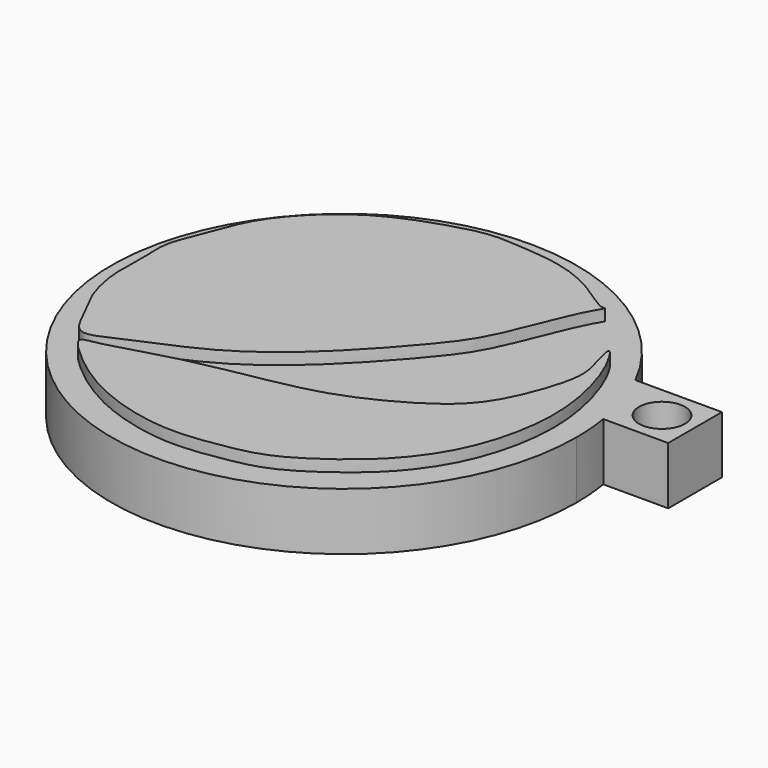
from build123d import *

# Parameters (mm, degrees)
F2_DEPTH = 7.62
F3_DEPTH = 6.35
F4_D     = 5.08


with BuildPart() as f2:
    # F0 (on Top) → F2 (new body)
    with BuildSketch(Plane.XY):
        with BuildLine():
            add(Edge.make_bspline(
                [(11.3925924525, 17.6960881799), (11.4522522271, 17.6316256109), (10.2322182088, 16.0161467643), (7.3368616857, 7.849215981), (4.8478897095, 4.2637920506), (0.782350841, -0.4824891286), (-4.2869563606, -5.5932078406), (-10.3140487718, -9.9502935727), (-17.7466644271, -12.7767589247), (-21.5863698426, -14.8103281471), (-23.2088860472, -10.5264443026), (-24.6762324783, -8.4463871505), (-25.8878547315, -3.9374434033), (-25.4621052529, -0.0640328366), (-25.9049420955, 3.3120423058), (-24.4454604734, 6.4801479172), (-23.0413839958, 10.7489704578), (-20.6435530335, 14.3387062486), (-15.4481695001, 19.1315336144), (-8.3691642114, 21.5030113717), (-4.7808371416, 22.4031037903), (-1.2724982435, 22.0983579931), (2.6663893577, 21.8590663748), (7.3612089943, 20.3355328943), (10.8287082301, 17.4622169589), (11.3649415118, 17.7259651059), (11.3925924525, 17.6960881799)],
                knots=[0, 0, 0, 0, 0.0243333914, 0.0834161199, 0.1263939574, 0.174822437, 0.2281911591, 0.2828459756, 0.3394774008, 0.3756173055, 0.4131842142, 0.446348772, 0.4881590181, 0.5277659611, 0.563430048, 0.6000460178, 0.6416643383, 0.6826708363, 0.7352876759, 0.7894061593, 0.8272248113, 0.8634878554, 0.9026759321, 0.9482742966, 0.9887220298, 1, 1, 1, 1], degree=3))
        make_face()
    extrude(amount=F2_DEPTH)



with BuildPart() as f2b:
    # F0 (on Top) → F2, piece 2 (new body)
    with BuildSketch(Plane.XY):
        with BuildLine():
            add(Edge.make_bspline(
                [(16.641119495, 11.6538135335), (16.4952132012, 11.5061059532), (17.2817326312, 8.7812772647), (17.9929596599, 6.2142330274), (15.4270380487, -1.3536883497), (11.7192736658, -5.3897319121), (4.403453858, -9.3002603402), (-1.9400838465, -10.893150571), (-11.4027863634, -12.3852173813), (-18.2239671871, -14.7749376238), (-20.9724852679, -14.9516052994), (-18.2363704978, -17.7426323853), (-13.0464742137, -21.6023653407), (-4.807585734, -23.918750216), (1.3858091553, -23.0235440632), (5.8684376604, -22.1646485244), (10.2133839763, -19.4502588846), (14.4122948719, -16.1119806131), (18.0886438515, -11.2779818899), (20.1792944174, -5.1475439728), (20.7010865509, 1.845290411), (18.6513287997, 9.0112292063), (16.7875911075, 11.8020934115), (16.641119495, 11.6538135335)],
                knots=[0, 0, 0, 0, 0.031958286, 0.0676368966, 0.1228189259, 0.1713835567, 0.228277207, 0.2808819576, 0.344358483, 0.3997076941, 0.4251233199, 0.4580717239, 0.51139217, 0.57054298, 0.6208972465, 0.6636710334, 0.7089200768, 0.755983755, 0.8055185834, 0.8566230042, 0.9104933882, 0.9679178906, 1, 1, 1, 1], degree=3))
        make_face()
    extrude(amount=F2_DEPTH)


with BuildPart() as f2_1:
    add(f2.part)

    add(f2b.part)  # F3 merges F2b
    # F1 (on Top) → F3 (join)
    with BuildSketch(Plane.XY):
        with BuildLine():
            ThreePointArc((20.3097191966, 10.7561138723), (-27.6713649091, -6.6515288305), (23.0268095968, -0.7434362287))
            ThreePointArc((23.0268095968, -0.7434362287), (22.9448125489, 1.3076200549), (22.6993447716, 3.3455849625))
            ThreePointArc((22.6993447716, 3.3455849625), (21.786879255, 7.1418961251), (20.3097191966, 10.7561138723))
        make_face()
        with BuildLine():
            ThreePointArc((20.3097191966, 10.7561138723), (21.786879255, 7.1418961251), (22.6993447716, 3.3455849625))
            Line((22.6993447716, 3.3455849625), (29.8733139458, 3.3455849625))
            Line((29.8733139458, 3.3455849625), (29.8733139458, 10.7561138723))
            Line((29.8733139458, 10.7561138723), (20.3097191966, 10.7561138723))
        make_face()
    extrude(amount=F3_DEPTH)

    # F4 (through all)
    with Locations(Plane(origin=(0, 0, 0), x_dir=(1, 0, 0), z_dir=(0, 0, -1))):
        with Locations((26.2181088328, -7.0537775755)):
            Hole(F4_D / 2)


solid = f2_1.part
